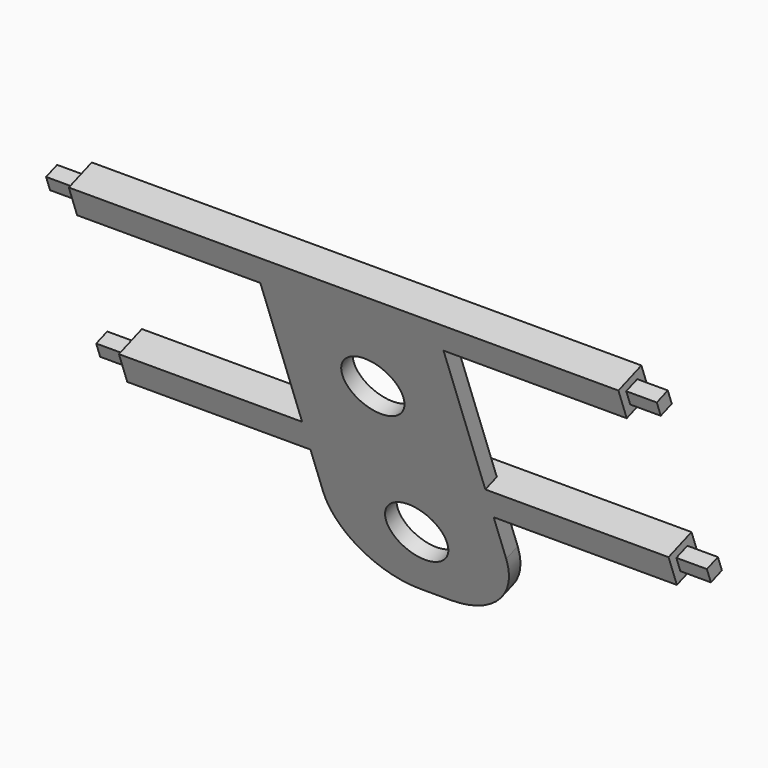
from build123d import *

# Parameters (mm, degrees)
SKETCH039_W             = 110
SKETCH039_H             = 60
PAD024_DEPTH            = 5
SKETCH040_W             = 10
SKETCH040_H             = 10
PAD025_DEPTH            = 90
SKETCH041_W             = 4.8
SKETCH041_H             = 4.8
PAD026_DEPTH            = 100
SKETCH042_R             = 10
POCKET015_DEPTH         = 3.5
FILLET002_R             = 25
BODY013_PITCH_ANGLE     = 70
BODY013_PLACEMENT_ANGLE = 90


with BuildPart() as part:
    # Sketch039 → Pad024 (new body)
    with BuildSketch(Plane.XY.offset(-2.5)):
        with Locations((52.5, 0)):
            Rectangle(SKETCH039_W, SKETCH039_H)
    extrude(amount=PAD024_DEPTH)

    # Sketch040 → Pad025 (join, symmetric)
    with BuildSketch(Plane.XZ):
        with Locations((2.5, 2.5)):
            Rectangle(SKETCH040_W, SKETCH040_H)
        with Locations((62.5, 2.5)):
            Rectangle(SKETCH040_W, SKETCH040_H)
    extrude(amount=PAD025_DEPTH, both=True)

    # Sketch041 → Pad026 (join, symmetric)
    with BuildSketch(Plane.XZ):
        with Locations((2.4, 2.4)):
            Rectangle(SKETCH041_W, SKETCH041_H)
        with Locations((62.4, 2.4)):
            Rectangle(SKETCH041_W, SKETCH041_H)
    extrude(amount=PAD026_DEPTH, both=True)

    # Sketch042 → Pocket015 (cut, symmetric)
    with BuildSketch(Plane.XY):
        with Locations((32.5, 0)):
            Circle(SKETCH042_R)
        with Locations((85, 0)):
            Circle(SKETCH042_R)
    extrude(amount=POCKET015_DEPTH, both=True, mode=Mode.SUBTRACT)

    # Fillet002
    fillet002_edges = [part.edges().sort_by_distance(p)[0] for p in [
        (107.5, 30, 0),
        (107.5, -30, 0),
    ]]
    fillet(fillet002_edges, radius=FILLET002_R)


with BuildPart() as part_1:
    # Body013 pitch: moved
    add(part.part.rotate(Axis((0, 0, 0), (0, 1, 0)), BODY013_PITCH_ANGLE))


with BuildPart() as part_2:
    # Body013 placement: moved
    add(part_1.part.moved(Location((75.5, 0.18654, -53.140994))).rotate(Axis((75.5, 0.18654, -53.140994), (0, 0, 1)), BODY013_PLACEMENT_ANGLE))


solid = part_2.part
